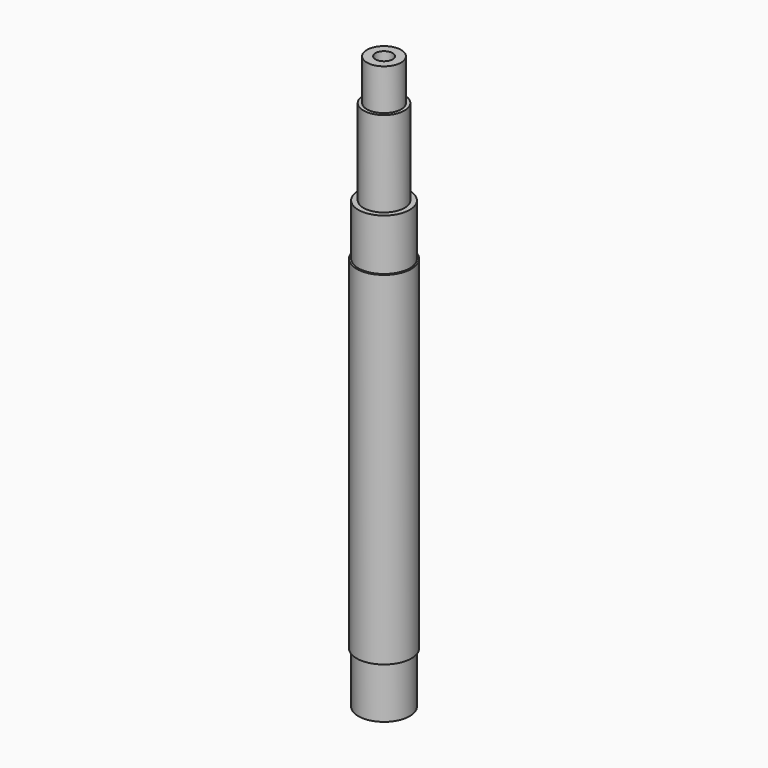
from build123d import *

# Parameters (mm, degrees)
F0_R      = 7.5
F1_DEPTH  = 15
F2_R      = 8
F3_DEPTH  = 100
F4_R      = 7.5
F5_DEPTH  = 15
F6_R      = 6
F7_DEPTH  = 25
F8_R      = 5
F9_DEPTH  = 12
F11_D     = 5
F11_DEPTH = 12
F11_TIP   = 1.5021515476


with BuildPart() as f1:
    # F0 (on Top) → F1 (new body)
    with BuildSketch(Plane.XY):
        Circle(F0_R)
    extrude(amount=F1_DEPTH)

    # F2 (on face) → F3 (join)
    with BuildSketch(Plane.XY.offset(15)):
        Circle(F2_R)
    extrude(amount=F3_DEPTH)

    # F4 (on face) → F5 (join)
    with BuildSketch(Plane.XY.offset(115)):
        Circle(F4_R)
    extrude(amount=F5_DEPTH)

    # F6 (on face) → F7 (join)
    with BuildSketch(Plane.XY.offset(130)):
        Circle(F6_R)
    extrude(amount=F7_DEPTH)

    # F8 (on face) → F9 (join)
    with BuildSketch(Plane.XY.offset(155)):
        Circle(F8_R)
    extrude(amount=F9_DEPTH)

    # F11
    with Locations(Plane.XY.offset(167)):
        with Locations((0, 0)):
            Hole(F11_D / 2, depth=F11_DEPTH)
            with Locations((0, 0, -(F11_DEPTH + F11_TIP / 2))):  # 118° drill point
                Cone(0, F11_D / 2, F11_TIP, mode=Mode.SUBTRACT)


solid = f1.part
